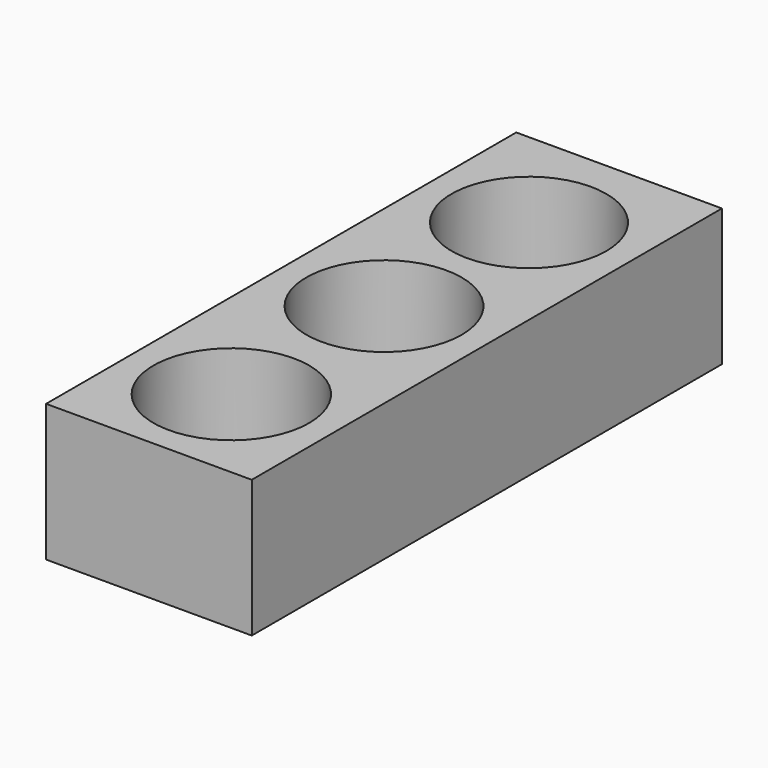
from build123d import *

# Parameters (mm, degrees)
F0_W     = 10.5
F0_H     = 30
F0_R     = 3.975
F0_R_2   = 3.965
F0_R_3   = 3.95
F1_DEPTH = 7


with BuildPart() as f1:
    # F0 (on Top) → F1 (new body)
    with BuildSketch(Plane.XY):
        Rectangle(F0_W, F0_H)
        with Locations((0, -9.742973)):
            Circle(F0_R, mode=Mode.SUBTRACT)
        Circle(F0_R_2, mode=Mode.SUBTRACT)
        with Locations((0, 9.250794)):
            Circle(F0_R_3, mode=Mode.SUBTRACT)
    extrude(amount=F1_DEPTH)


solid = f1.part
